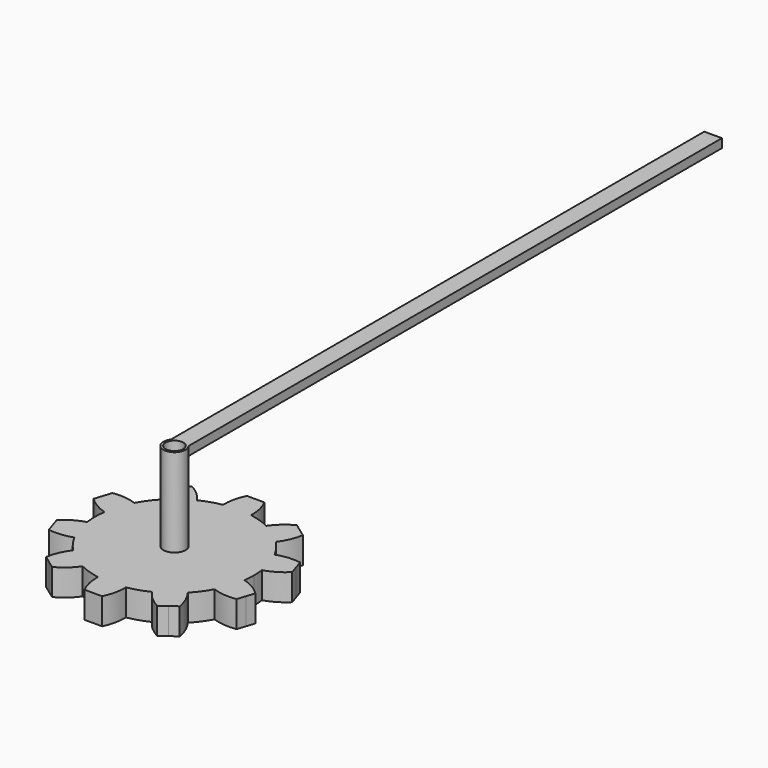
from build123d import *

# Parameters (mm, degrees)
F1_DEPTH = 3
F2_R     = 1.25
F3_DEPTH = 10
F4_R     = 1
F5_DEPTH = 25
F6_W     = 1
F6_H     = 75
F7_DEPTH = 1


with BuildPart() as f1:
    # F0 (on Top) → F1 (new body)
    with BuildSketch(Plane.XY):
        with BuildLine():
            ThreePointArc((8.915987, -1.226854), (8.978972, -0.614863), (9, 0))
            ThreePointArc((9, 0), (8.978972, 0.614863), (8.915987, 1.226854))
            ThreePointArc((8.915987, 1.226854), (8.559509, 2.781153), (7.934312, 4.24814))
            ThreePointArc((7.934312, 4.24814), (7.281153, 5.290067), (6.492059, 6.233231))
            ThreePointArc((6.492059, 6.233231), (5.290067, 7.281153), (3.921999, 8.100489))
            ThreePointArc((3.921999, 8.100489), (2.781153, 8.559509), (1.588385, 8.858726))
            ThreePointArc((1.588385, 8.858726), (0, 9), (-1.588385, 8.858726))
            ThreePointArc((-1.588385, 8.858726), (-2.781153, 8.559509), (-3.921999, 8.100489))
            ThreePointArc((-3.921999, 8.100489), (-5.290067, 7.281153), (-6.492059, 6.233231))
            ThreePointArc((-6.492059, 6.233231), (-7.281153, 5.290067), (-7.934312, 4.24814))
            ThreePointArc((-7.934312, 4.24814), (-8.559509, 2.781153), (-8.915987, 1.226854))
            ThreePointArc((-8.915987, 1.226854), (-9, 0), (-8.915987, -1.226854))
            ThreePointArc((-8.915987, -1.226854), (-8.559509, -2.781153), (-7.934312, -4.24814))
            ThreePointArc((-7.934312, -4.24814), (-7.281153, -5.290067), (-6.492059, -6.233231))
            ThreePointArc((-6.492059, -6.233231), (-5.290067, -7.281153), (-3.921999, -8.100489))
            ThreePointArc((-3.921999, -8.100489), (-2.781153, -8.559509), (-1.588385, -8.858726))
            ThreePointArc((-1.588385, -8.858726), (0, -9), (1.588385, -8.858726))
            ThreePointArc((1.588385, -8.858726), (2.781153, -8.559509), (3.921999, -8.100489))
            ThreePointArc((3.921999, -8.100489), (5.290067, -7.281153), (6.492059, -6.233231))
            ThreePointArc((6.492059, -6.233231), (7.281153, -5.290067), (7.934312, -4.24814))
            ThreePointArc((7.934312, -4.24814), (8.559509, -2.781153), (8.915987, -1.226854))
        make_face()
        with BuildLine():
            ThreePointArc((7.934312, 4.24814), (8.559509, 2.781153), (8.915987, 1.226854))
            ThreePointArc((8.915987, 1.226854), (10.16558, 1.771623), (11.246167, 2.602639))
            Line((11.246167, 2.602639), (10.93715, 3.553695))
            Line((10.93715, 3.553695), (10.628133, 4.504752))
            ThreePointArc((10.628133, 4.504752), (9.265461, 4.541905), (7.934312, 4.24814))
        make_face()
        with BuildLine():
            ThreePointArc((11.246167, -2.602639), (10.16558, -1.771623), (8.915987, -1.226854))
            ThreePointArc((8.915987, -1.226854), (8.559509, -2.781153), (7.934312, -4.24814))
            ThreePointArc((7.934312, -4.24814), (9.265461, -4.541905), (10.628133, -4.504752))
            Line((10.628133, -4.504752), (10.93715, -3.553695))
            Line((10.93715, -3.553695), (11.246167, -2.602639))
        make_face()
        with BuildLine():
            ThreePointArc((3.921999, 8.100489), (5.290067, 7.281153), (6.492059, 6.233231))
            ThreePointArc((6.492059, 6.233231), (7.182793, 7.408451), (7.568547, 8.71591))
            Line((7.568547, 8.71591), (6.75953, 9.303695))
            Line((6.75953, 9.303695), (5.950513, 9.891481))
            ThreePointArc((5.950513, 9.891481), (4.826251, 9.120579), (3.921999, 8.100489))
        make_face()
        with BuildLine():
            ThreePointArc((7.568547, -8.71591), (7.182793, -7.408451), (6.492059, -6.233231))
            ThreePointArc((6.492059, -6.233231), (5.290067, -7.281153), (3.921999, -8.100489))
            ThreePointArc((3.921999, -8.100489), (4.826251, -9.120579), (5.950513, -9.891481))
            Line((5.950513, -9.891481), (6.75953, -9.303695))
            Line((6.75953, -9.303695), (7.568547, -8.71591))
        make_face()
        with BuildLine():
            ThreePointArc((-1.588385, 8.858726), (0, 9), (1.588385, 8.858726))
            ThreePointArc((1.588385, 8.858726), (1.456423, 10.215503), (1, 11.5))
            Line((1, 11.5), (0, 11.5))
            Line((0, 11.5), (-1, 11.5))
            ThreePointArc((-1, 11.5), (-1.456423, 10.215503), (-1.588385, 8.858726))
        make_face()
        with BuildLine():
            ThreePointArc((1, -11.5), (1.456423, -10.215503), (1.588385, -8.858726))
            ThreePointArc((1.588385, -8.858726), (0, -9), (-1.588385, -8.858726))
            ThreePointArc((-1.588385, -8.858726), (-1.456423, -10.215503), (-1, -11.5))
            Line((-1, -11.5), (0, -11.5))
            Line((0, -11.5), (1, -11.5))
        make_face()
        with BuildLine():
            ThreePointArc((-6.492059, 6.233231), (-5.290067, 7.281153), (-3.921999, 8.100489))
            ThreePointArc((-3.921999, 8.100489), (-4.826251, 9.120579), (-5.950513, 9.891481))
            Line((-5.950513, 9.891481), (-6.75953, 9.303695))
            Line((-6.75953, 9.303695), (-7.568547, 8.71591))
            ThreePointArc((-7.568547, 8.71591), (-7.182793, 7.408451), (-6.492059, 6.233231))
        make_face()
        with BuildLine():
            ThreePointArc((-5.950513, -9.891481), (-4.826251, -9.120579), (-3.921999, -8.100489))
            ThreePointArc((-3.921999, -8.100489), (-5.290067, -7.281153), (-6.492059, -6.233231))
            ThreePointArc((-6.492059, -6.233231), (-7.182793, -7.408451), (-7.568547, -8.71591))
            Line((-7.568547, -8.71591), (-6.75953, -9.303695))
            Line((-6.75953, -9.303695), (-5.950513, -9.891481))
        make_face()
        with BuildLine():
            ThreePointArc((-8.915987, 1.226854), (-8.559509, 2.781153), (-7.934312, 4.24814))
            ThreePointArc((-7.934312, 4.24814), (-9.265461, 4.541905), (-10.628133, 4.504752))
            Line((-10.628133, 4.504752), (-10.93715, 3.553695))
            Line((-10.93715, 3.553695), (-11.246167, 2.602639))
            ThreePointArc((-11.246167, 2.602639), (-10.16558, 1.771623), (-8.915987, 1.226854))
        make_face()
        with BuildLine():
            ThreePointArc((-10.628133, -4.504752), (-9.265461, -4.541905), (-7.934312, -4.24814))
            ThreePointArc((-7.934312, -4.24814), (-8.559509, -2.781153), (-8.915987, -1.226854))
            ThreePointArc((-8.915987, -1.226854), (-10.16558, -1.771623), (-11.246167, -2.602639))
            Line((-11.246167, -2.602639), (-10.93715, -3.553695))
            Line((-10.93715, -3.553695), (-10.628133, -4.504752))
        make_face()
    extrude(amount=F1_DEPTH)

    # F2 (on face) → F3 (join)
    with BuildSketch(Plane.XY.offset(3)):
        Circle(F2_R)
    extrude(amount=F3_DEPTH)

    # F4 (on face) → F5 (cut)
    with BuildSketch(Plane.XY.offset(13)):
        Circle(F4_R)
    extrude(amount=-F5_DEPTH, mode=Mode.SUBTRACT)

    # F6 (on face) → F7 (join)
    with BuildSketch(Plane.XY.offset(13)):
        with BuildLine():
            ThreePointArc((-1, 0.75), (-0.559017, 1.118034), (0, 1.25))
            Line((0, 1.25), (-1, 1.25))
            Line((-1, 1.25), (-1, 0.75))
        make_face()
        with Locations((-0.5, 38.75)):
            Rectangle(F6_W, F6_H)
        with Locations((0.5, 38.75)):
            Rectangle(F6_W, F6_H)
        with BuildLine():
            Line((1, 1.25), (0, 1.25))
            ThreePointArc((0, 1.25), (0.559017, 1.118034), (1, 0.75))
            Line((1, 0.75), (1, 1.25))
        make_face()
    extrude(amount=-F7_DEPTH)


solid = f1.part
